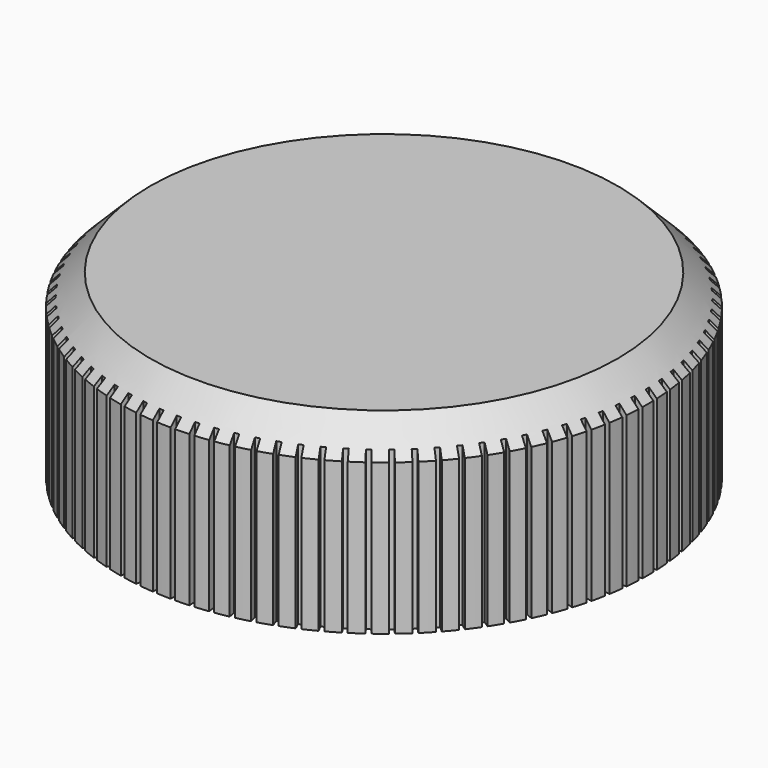
from build123d import *

# Parameters (mm, degrees)
F0_R     = 17.5
F1_DEPTH = 12
F2_SIZE  = 2
F4_DEPTH = 25
F6_DEPTH = 9


with BuildPart() as f1:
    # F0 (on Top) → F1 (new body)
    with BuildSketch(Plane.XY):
        Circle(F0_R)
    extrude(amount=F1_DEPTH)

    # F2
    f2_edges = [f1.edges().sort_by_distance(p)[0] for p in [
        (-17.5, 0, 12),
    ]]
    chamfer(f2_edges, length=F2_SIZE)

    # F3 (on face) → F4 (cut)
    with BuildSketch(Plane.XY.offset(12)):
        Polygon((-0.148374, 17.001942), (0.148351, 16.999353), (0.174531, 19.999238), (-0.174531, 19.999238), align=None)
        Polygon((-0.148351, -16.999353), (-0.174531, -19.999238), (0.174531, -19.999238), (0.148374, -17.001942), align=None)
        Polygon((-1.334008, 16.950176), (-1.037825, 16.968292), (-1.220971, 19.962696), (-1.569182, 19.938347), align=None)
        Polygon((-2.513143, 16.815831), (-2.218945, 16.854563), (-2.610524, 19.828897), (-2.956188, 19.780317), align=None)
        Polygon((-3.680034, 16.59956), (-3.389255, 16.65872), (-3.987359, 19.598494), (-4.328792, 19.52592), align=None)
        Polygon((-4.828996, 16.302418), (-4.543052, 16.381718), (-5.344768, 19.272609), (-5.680307, 19.176395), align=None)
        Polygon((-5.954432, 15.925853), (-5.674717, 16.024905), (-6.676137, 18.85283), (-7.004148, 18.733444), align=None)
        Polygon((-7.050859, 15.471698), (-6.778734, 15.590021), (-7.974981, 18.341201), (-8.293865, 18.199225), align=None)
        Polygon((-8.112935, 14.942167), (-7.849726, 15.079184), (-9.234972, 17.740217), (-9.543175, 17.576342), align=None)
        Polygon((-9.135485, 14.339839), (-8.882476, 14.494883), (-10.449971, 17.052803), (-10.745992, 16.867829), align=None)
        Polygon((-10.113528, 13.667648), (-9.87195, 13.839964), (-11.614059, 16.28231), (-11.896456, 16.077137), align=None)
        Polygon((-11.042299, 12.928871), (-10.81333, 13.117618), (-12.721564, 15.432492), (-12.988961, 15.208119), align=None)
        Polygon((-11.917273, 12.127105), (-11.702028, 12.331364), (-13.767092, 14.507487), (-14.018185, 14.265009), align=None)
        Polygon((-12.734187, 11.266257), (-12.533715, 11.485034), (-14.745547, 13.511804), (-14.979114, 13.252401), align=None)
        Polygon((-13.489061, 10.350521), (-13.304339, 10.582749), (-15.652163, 12.450293), (-15.867067, 12.175229), align=None)
        Polygon((-14.178218, 9.384358), (-14.010145, 9.628906), (-16.482524, 11.328125), (-16.677716, 11.03874), align=None)
        Polygon((-14.798301, 8.372476), (-14.647696, 8.628152), (-17.232583, 10.150767), (-17.407114, 9.848471), align=None)
        Polygon((-15.346287, 7.319803), (-15.213884, 7.585363), (-17.898687, 8.923956), (-18.051706, 8.610222), align=None)
        Polygon((-15.819508, 6.23147), (-15.705952, 6.505618), (-18.477591, 7.653669), (-18.608351, 7.330025), align=None)
        Polygon((-16.215658, 5.112777), (-16.121502, 5.394179), (-18.966473, 6.346093), (-19.074339, 6.014116), align=None)
        Polygon((-16.532807, 3.969176), (-16.45851, 4.25646), (-19.362953, 5.0076), (-19.447398, 4.668907), align=None)
        Polygon((-16.769409, 2.806237), (-16.715333, 3.098004), (-19.665098, 3.644711), (-19.725712, 3.300952), align=None)
        Polygon((-16.924313, 1.629626), (-16.890722, 1.924455), (-19.871437, 2.264064), (-19.907924, 1.916915), align=None)
        Polygon((-16.996763, 0.445076), (-16.98382, 0.74153), (-19.980964, 0.872388), (-19.993146, 0.523539), align=None)
        Polygon((-16.986407, -0.741643), (-16.994175, -0.445008), (-19.993146, -0.523539), (-19.980964, -0.872388), align=None)
        Polygon((-16.893294, -1.924748), (-16.921735, -1.629378), (-19.907924, -1.916915), (-19.871437, -2.264064), align=None)
        Polygon((-16.71788, -3.098476), (-16.766855, -2.805809), (-19.725712, -3.300952), (-19.665098, -3.644711), align=None)
        Polygon((-16.461017, -4.257108), (-16.530289, -3.968571), (-19.447398, -4.668907), (-19.362953, -5.0076), align=None)
        Polygon((-16.123958, -5.395001), (-16.213188, -5.111999), (-19.074339, -6.014116), (-18.966473, -6.346093), align=None)
        Polygon((-15.708345, -6.506609), (-15.817099, -6.230521), (-18.608351, -7.330025), (-18.477591, -7.653669), align=None)
        Polygon((-15.216202, -7.586518), (-15.34395, -7.318689), (-18.051706, -8.610222), (-17.898687, -8.923956), align=None)
        Polygon((-14.649927, -8.629466), (-14.796047, -8.371201), (-17.407114, -9.848471), (-17.232583, -10.150767), align=None)
        Polygon((-14.012279, -9.630373), (-14.176059, -9.382929), (-16.677716, -11.03874), (-16.482524, -11.328125), align=None)
        Polygon((-13.306365, -10.584361), (-13.487007, -10.348944), (-15.867067, -12.175229), (-15.652163, -12.450293), align=None)
        Polygon((-12.535624, -11.486783), (-12.732247, -11.264541), (-14.979114, -13.252401), (-14.745547, -13.511804), align=None)
        Polygon((-11.70381, -12.333243), (-11.915457, -12.125258), (-14.018185, -14.265009), (-13.767092, -14.507487), align=None)
        Polygon((-10.814977, -13.119616), (-11.040617, -12.926901), (-12.988961, -15.208119), (-12.721564, -15.432492), align=None)
        Polygon((-9.873454, -13.842072), (-10.111987, -13.665567), (-11.896456, -16.077137), (-11.614059, -16.28231), align=None)
        Polygon((-8.883829, -14.497091), (-9.134093, -14.337655), (-10.745992, -16.867829), (-10.449971, -17.052803), align=None)
        Polygon((-7.850922, -15.081481), (-8.111699, -14.939891), (-9.543175, -17.576342), (-9.234972, -17.740217), align=None)
        Polygon((-6.779767, -15.592396), (-7.049785, -15.469342), (-8.293865, -18.199225), (-7.974981, -18.341201), align=None)
        Polygon((-5.675581, -16.027346), (-5.953525, -15.923427), (-7.004148, -18.733444), (-6.676137, -18.85283), align=None)
        Polygon((-4.543744, -16.384213), (-4.828261, -16.299935), (-5.680307, -19.176395), (-5.344768, -19.272609), align=None)
        Polygon((-3.389771, -16.661258), (-3.679473, -16.597032), (-4.328792, -19.52592), (-3.987359, -19.598494), align=None)
        Polygon((-2.219283, -16.85713), (-2.51276, -16.81327), (-2.956188, -19.780317), (-2.610524, -19.828897), align=None)
        Polygon((-1.037983, -16.970876), (-1.333805, -16.947595), (-1.569182, -19.938347), (-1.220971, -19.962696), align=None)
        Polygon((1.334008, -16.950176), (1.037825, -16.968292), (1.220971, -19.962696), (1.569182, -19.938347), align=None)
        Polygon((2.513143, -16.815831), (2.218945, -16.854563), (2.610524, -19.828897), (2.956188, -19.780317), align=None)
        Polygon((3.680034, -16.59956), (3.389255, -16.65872), (3.987359, -19.598494), (4.328792, -19.52592), align=None)
        Polygon((4.828996, -16.302418), (4.543052, -16.381718), (5.344768, -19.272609), (5.680307, -19.176395), align=None)
        Polygon((5.954432, -15.925853), (5.674717, -16.024905), (6.676137, -18.85283), (7.004148, -18.733444), align=None)
        Polygon((7.050859, -15.471698), (6.778734, -15.590021), (7.974981, -18.341201), (8.293865, -18.199225), align=None)
        Polygon((8.112935, -14.942167), (7.849726, -15.079184), (9.234972, -17.740217), (9.543175, -17.576342), align=None)
        Polygon((9.135485, -14.339839), (8.882476, -14.494883), (10.449971, -17.052803), (10.745992, -16.867829), align=None)
        Polygon((10.113528, -13.667648), (9.87195, -13.839964), (11.614059, -16.28231), (11.896456, -16.077137), align=None)
        Polygon((11.042299, -12.928871), (10.81333, -13.117618), (12.721564, -15.432492), (12.988961, -15.208119), align=None)
        Polygon((11.917273, -12.127105), (11.702028, -12.331364), (13.767092, -14.507487), (14.018185, -14.265009), align=None)
        Polygon((12.734187, -11.266257), (12.533715, -11.485034), (14.745547, -13.511804), (14.979114, -13.252401), align=None)
        Polygon((13.489061, -10.350521), (13.304339, -10.582749), (15.652163, -12.450293), (15.867067, -12.175229), align=None)
        Polygon((14.178218, -9.384358), (14.010145, -9.628906), (16.482524, -11.328125), (16.677716, -11.03874), align=None)
        Polygon((14.798301, -8.372476), (14.647696, -8.628152), (17.232583, -10.150767), (17.407114, -9.848471), align=None)
        Polygon((15.346287, -7.319803), (15.213884, -7.585363), (17.898687, -8.923956), (18.051706, -8.610222), align=None)
        Polygon((15.819508, -6.23147), (15.705952, -6.505618), (18.477591, -7.653669), (18.608351, -7.330025), align=None)
        Polygon((16.215658, -5.112777), (16.121502, -5.394179), (18.966473, -6.346093), (19.074339, -6.014116), align=None)
        Polygon((16.532807, -3.969176), (16.45851, -4.25646), (19.362953, -5.0076), (19.447398, -4.668907), align=None)
        Polygon((16.769409, -2.806237), (16.715333, -3.098004), (19.665098, -3.644711), (19.725712, -3.300952), align=None)
        Polygon((16.924313, -1.629626), (16.890722, -1.924455), (19.871437, -2.264064), (19.907924, -1.916915), align=None)
        Polygon((16.996763, -0.445076), (16.98382, -0.74153), (19.980964, -0.872388), (19.993146, -0.523539), align=None)
        Polygon((16.986407, 0.741643), (16.994175, 0.445008), (19.993146, 0.523539), (19.980964, 0.872388), align=None)
        Polygon((16.893294, 1.924748), (16.921735, 1.629378), (19.907924, 1.916915), (19.871437, 2.264064), align=None)
        Polygon((16.71788, 3.098476), (16.766855, 2.805809), (19.725712, 3.300952), (19.665098, 3.644711), align=None)
        Polygon((16.461017, 4.257108), (16.530289, 3.968571), (19.447398, 4.668907), (19.362953, 5.0076), align=None)
        Polygon((16.123958, 5.395001), (16.213188, 5.111999), (19.074339, 6.014116), (18.966473, 6.346093), align=None)
        Polygon((15.708345, 6.506609), (15.817099, 6.230521), (18.608351, 7.330025), (18.477591, 7.653669), align=None)
        Polygon((15.216202, 7.586518), (15.34395, 7.318689), (18.051706, 8.610222), (17.898687, 8.923956), align=None)
        Polygon((14.649927, 8.629466), (14.796047, 8.371201), (17.407114, 9.848471), (17.232583, 10.150767), align=None)
        Polygon((14.012279, 9.630373), (14.176059, 9.382929), (16.677716, 11.03874), (16.482524, 11.328125), align=None)
        Polygon((13.306365, 10.584361), (13.487007, 10.348944), (15.867067, 12.175229), (15.652163, 12.450293), align=None)
        Polygon((12.535624, 11.486783), (12.732247, 11.264541), (14.979114, 13.252401), (14.745547, 13.511804), align=None)
        Polygon((11.70381, 12.333243), (11.915457, 12.125258), (14.018185, 14.265009), (13.767092, 14.507487), align=None)
        Polygon((10.814977, 13.119616), (11.040617, 12.926901), (12.988961, 15.208119), (12.721564, 15.432492), align=None)
        Polygon((9.873454, 13.842072), (10.111987, 13.665567), (11.896456, 16.077137), (11.614059, 16.28231), align=None)
        Polygon((8.883829, 14.497091), (9.134093, 14.337655), (10.745992, 16.867829), (10.449971, 17.052803), align=None)
        Polygon((7.850922, 15.081481), (8.111699, 14.939891), (9.543175, 17.576342), (9.234972, 17.740217), align=None)
        Polygon((6.779767, 15.592396), (7.049785, 15.469342), (8.293865, 18.199225), (7.974981, 18.341201), align=None)
        Polygon((5.675581, 16.027346), (5.953525, 15.923427), (7.004148, 18.733444), (6.676137, 18.85283), align=None)
        Polygon((4.543744, 16.384213), (4.828261, 16.299935), (5.680307, 19.176395), (5.344768, 19.272609), align=None)
        Polygon((3.389771, 16.661258), (3.679473, 16.597032), (4.328792, 19.52592), (3.987359, 19.598494), align=None)
        Polygon((2.219283, 16.85713), (2.51276, 16.81327), (2.956188, 19.780317), (2.610524, 19.828897), align=None)
        Polygon((1.037983, 16.970876), (1.333805, 16.947595), (1.569182, 19.938347), (1.220971, 19.962696), align=None)
    extrude(amount=-F4_DEPTH, mode=Mode.SUBTRACT)

    # F5 (on face) → F6 (cut)
    with BuildSketch(Plane(origin=(0, 0, 0), x_dir=(1, 0, 0), z_dir=(0, 0, -1))):
        with BuildLine():
            Line((2.598076, 1.5), (-2.598076, 1.5))
            ThreePointArc((-2.598076, 1.5), (0, -3), (2.598076, 1.5))
        make_face()
    extrude(amount=-F6_DEPTH, mode=Mode.SUBTRACT)


solid = f1.part
